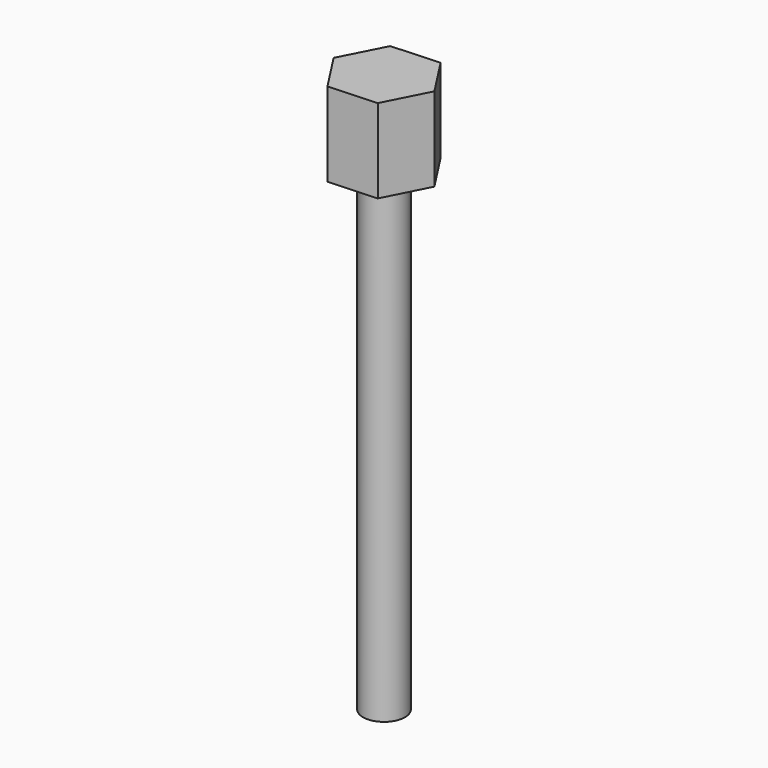
from build123d import *

# Parameters (mm, degrees)
F0_R     = 6.35
F1_DEPTH = 76.2
F2_DEPTH = 67.564
F4_DEPTH = 25.4


with BuildPart() as f1:
    # F0 (on Top) → F1 (new body)
    with BuildSketch(Plane.XY):
        Circle(F0_R)
    extrude(amount=F1_DEPTH)

    # F0 (on Top) → F2 (join)
    with BuildSketch(Plane.XY):
        Circle(F0_R)
    extrude(amount=-F2_DEPTH)

    # F3 (on face) → F4 (join)
    with BuildSketch(Plane.XY.offset(76.2)):
        Polygon((14.64565, 0.747176), (6.675751, 13.057093), (-7.969899, 12.309917), (-14.64565, -0.747176), (-6.675751, -13.057093), (7.969899, -12.309917), align=None)
    extrude(amount=F4_DEPTH)


solid = f1.part
